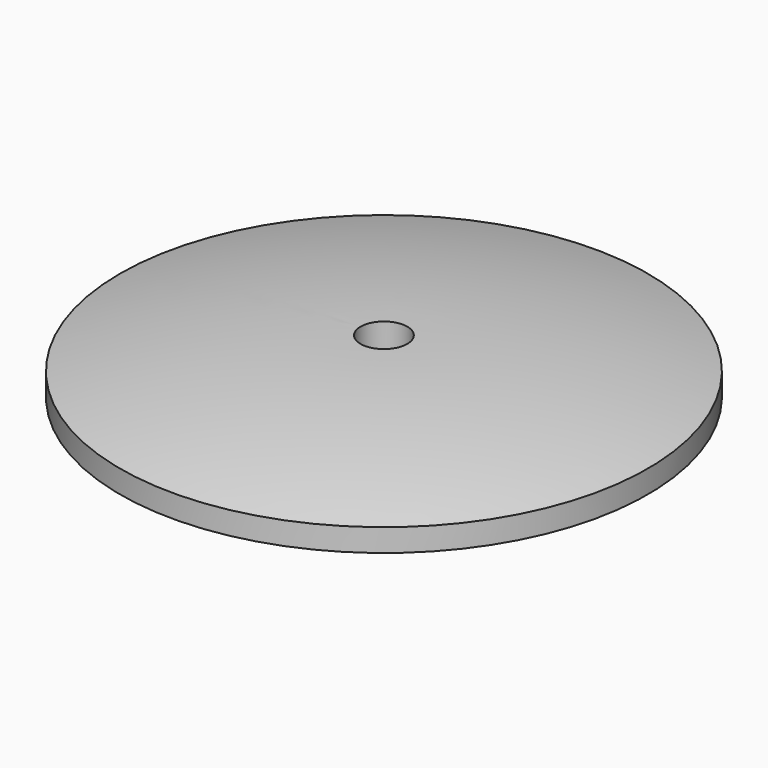
from build123d import *


with BuildPart() as f1:
    # F0 (on Front) → F1 (revolve)
    with BuildSketch(Plane.XZ):
        with BuildLine():
            Line((-1.55, 0), (-1.55, 3.6))
            ThreePointArc((-1.55, 3.6), (-9.593307, 3.074757), (-17.5, 1.50795))
            Line((-17.5, 1.50795), (-17.5, 0))
            Line((-17.5, 0), (-1.55, 0))
        make_face()
    revolve(axis=Axis((0, 0, 1.8), (0, 0, -1)))


solid = f1.part
